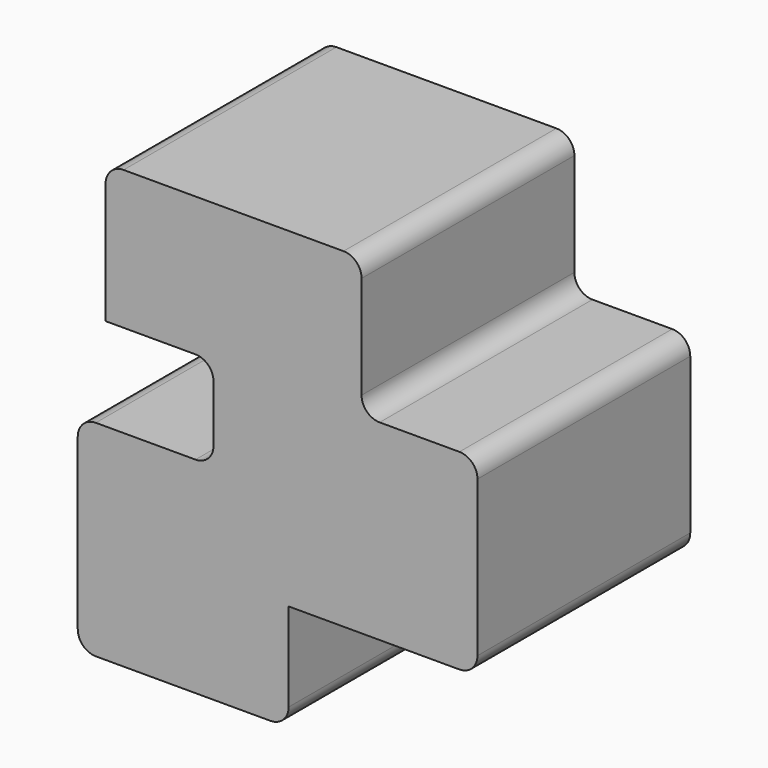
from build123d import *

# Parameters (mm, degrees)
F1_DEPTH = 73.66
F2_R     = 5


with BuildPart() as f1:
    # F0 (on Front) → F1 (new body)
    with BuildSketch(Plane.XZ):
        Polygon((-32.808065, 47.349315), (-32.808065, 8.859315), (-2.901564, 8.859315), (-2.901564, -16.800685), (-40.508065, -16.800685), (-40.508065, -73.740685), (17.891935, -73.740685), (17.891935, -44.200685), (70.191935, -44.200685), (70.191935, 8.859315), (38.101935, 8.859315), (38.101935, 47.349315), align=None)
    extrude(amount=-F1_DEPTH)

    # F2
    f2_edges = [f1.edges().sort_by_distance(p)[0] for p in [
        (38.101935, 36.83, 47.349315),
        (-32.808065, 36.83, 47.349315),
        (38.101935, 36.83, 8.859315),
        (70.191935, 36.83, 8.859315),
        (70.191935, 36.83, -44.200685),
        (17.891935, 36.83, -73.740685),
        (-40.508065, 36.83, -73.740685),
        (-40.508065, 36.83, -16.800685),
        (-2.901564, 36.83, -16.800685),
        (-2.901564, 36.83, 8.859315),
    ]]
    fillet(f2_edges, radius=F2_R)


solid = f1.part
